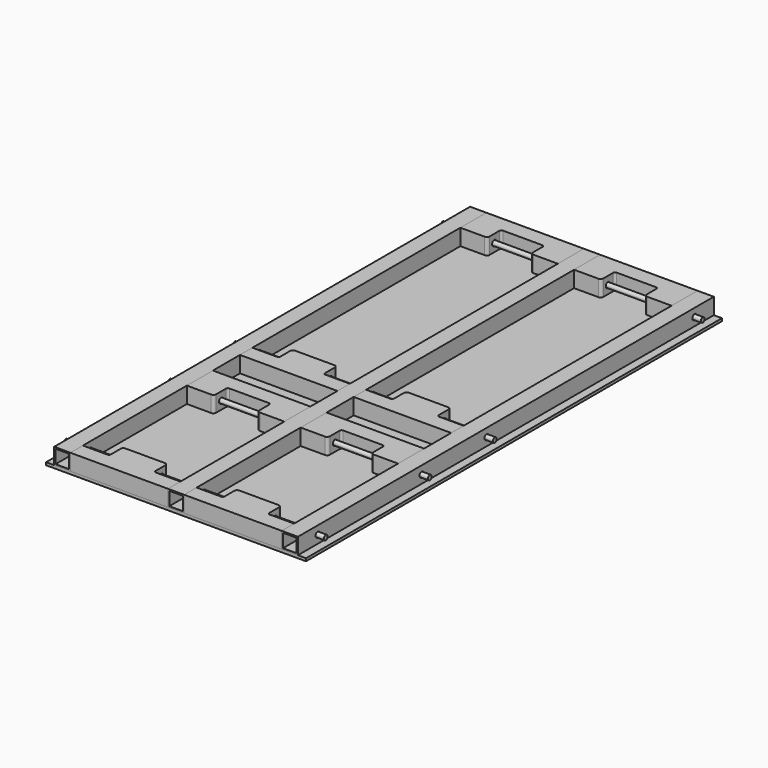
from build123d import *

# Parameters (mm, degrees)
F0_W     = 1219.2
F0_H     = 2438.4
F1_DEPTH = 12.7
F2_W     = 76.2
F2_H     = 76.2
F2_W_2   = 63.5
F2_H_2   = 63.5
F3_DEPTH = 1219.2
F5_DEPTH = 76.2
F6_R     = 12.7
F7_DEPTH = 609.6
F8_R     = 11.1125
F9_DEPTH = 609.6
F10_R    = 9.525
F11_R    = 12.7
F12_R    = 12.7
F13_R    = 9.525


with BuildPart() as f1:
    # F0 (on Top) → F1 (new body)
    with BuildSketch(Plane.XY):
        Rectangle(F0_W, F0_H)
    extrude(amount=F1_DEPTH)


with BuildPart() as f3:
    # F2 (on Front) → F3 (new body, symmetric)
    with BuildSketch(Plane.XZ):
        with Locations((0, 50.8)):
            Rectangle(F2_W, F2_H)
        with Locations((0, 50.8)):
            Rectangle(F2_W_2, F2_H_2, mode=Mode.SUBTRACT)
        with Locations((-533.4, 50.8)):
            Rectangle(F2_W, F2_H)
        with Locations((-533.4, 50.8)):
            Rectangle(F2_W_2, F2_H_2, mode=Mode.SUBTRACT)
        with Locations((533.4, 50.8)):
            Rectangle(F2_W, F2_H)
        with Locations((533.4, 50.8)):
            Rectangle(F2_W_2, F2_H_2, mode=Mode.SUBTRACT)
    extrude(amount=F3_DEPTH, both=True)


with BuildPart() as f5:
    # F4 (on face) → F5 (new body)
    with BuildSketch(Plane.XY.offset(12.7)):
        Polygon((-38.1, 1219.2), (-495.3, 1219.2), (-495.3, 1066.8), (-368.3, 1066.8), (-368.3, 1146.175), (-165.1, 1146.175), (-165.1, 1066.8), (-38.1, 1066.8), align=None)
        Polygon((-495.3, -1146.175), (-495.3, -1219.2), (-38.1, -1219.2), (-38.1, -1146.175), (-161.925, -1146.175), (-161.925, -1066.8), (-371.475, -1066.8), (-371.475, -1146.175), align=None)
        Polygon((495.3, -152.4), (371.475, -152.4), (371.475, -73.025), (161.925, -73.025), (161.925, -152.4), (38.1, -152.4), (38.1, -225.425), (495.3, -225.425), align=None)
        Polygon((38.1, -1146.175), (38.1, -1219.2), (495.3, -1219.2), (495.3, -1146.175), (371.475, -1146.175), (371.475, -1066.8), (161.925, -1066.8), (161.925, -1146.175), align=None)
        Polygon((495.3, 1219.2), (38.1, 1219.2), (38.1, 1066.8), (165.1, 1066.8), (165.1, 1146.175), (368.3, 1146.175), (368.3, 1066.8), (495.3, 1066.8), align=None)
        Polygon((-371.475, -152.4), (-495.3, -152.4), (-495.3, -225.425), (-38.1, -225.425), (-38.1, -152.4), (-161.925, -152.4), (-161.925, -73.025), (-371.475, -73.025), align=None)
        Polygon((-38.1, -384.175), (-495.3, -384.175), (-495.3, -536.575), (-368.3, -536.575), (-368.3, -457.2), (-165.1, -457.2), (-165.1, -536.575), (-38.1, -536.575), align=None)
        Polygon((495.3, -536.575), (495.3, -384.175), (38.1, -384.175), (38.1, -536.575), (165.1, -536.575), (165.1, -457.2), (368.3, -457.2), (368.3, -536.575), align=None)
    extrude(amount=F5_DEPTH)


with BuildPart() as f7_tool:
    # F6 (on Right) → F7 (new body, symmetric)
    with BuildSketch(Plane.YZ):
        with Locations((-1103.3125, 50.8)):
            Circle(F6_R)
        with Locations((-493.7125, 50.8)):
            Circle(F6_R)
        with Locations((-112.7125, 50.8)):
            Circle(F6_R)
        with Locations((1106.4875, 50.8)):
            Circle(F6_R)
    extrude(amount=F7_DEPTH, both=True)


with BuildPart() as f3_1:
    add(f3.part)

    # F7: cut by f7_tool
    add(f7_tool.part, mode=Mode.SUBTRACT)


with BuildPart() as f5_1:
    add(f5.part)

    # F7: cut by f7_tool
    add(f7_tool.part, mode=Mode.SUBTRACT)

    # F10
    f10_edges = [f5_1.edges().sort_by_distance(p)[0] for p in [
        (-368.3, -457.2, 50.8),
        (165.1, -457.2, 50.8),
        (368.3, -457.2, 50.8),
        (-165.1, -457.2, 50.8),
        (-368.3, 1146.175, 50.8),
        (165.1, 1146.175, 50.8),
        (368.3, 1146.175, 50.8),
        (-165.1, 1146.175, 50.8),
    ]]
    fillet(f10_edges, radius=F10_R)

    # F11
    f11_edges = [f5_1.edges().sort_by_distance(p)[0] for p in [
        (-371.475, -73.025, 50.8),
        (-161.925, -73.025, 50.8),
        (161.925, -73.025, 50.8),
        (371.475, -73.025, 50.8),
        (-371.475, -1066.8, 50.8),
        (-161.925, -1066.8, 50.8),
        (161.925, -1066.8, 50.8),
        (371.475, -1066.8, 50.8),
    ]]
    fillet(f11_edges, radius=F11_R)

    # F12
    f12_edges = [f5_1.edges().sort_by_distance(p)[0] for p in [
        (-368.3, -536.575, 50.8),
        (-165.1, -536.575, 50.8),
        (-368.3, 1066.8, 50.8),
        (-165.1, 1066.8, 50.8),
        (165.1, 1066.8, 50.8),
        (368.3, 1066.8, 50.8),
        (165.1, -536.575, 50.8),
        (368.3, -536.575, 50.8),
    ]]
    fillet(f12_edges, radius=F12_R)

    # F13
    f13_edges = [f5_1.edges().sort_by_distance(p)[0] for p in [
        (371.475, -152.4, 50.8),
        (161.925, -152.4, 50.8),
        (-371.475, -152.4, 50.8),
        (-161.925, -152.4, 50.8),
        (-371.475, -1146.175, 50.8),
        (-161.925, -1146.175, 50.8),
        (161.925, -1146.175, 50.8),
        (371.475, -1146.175, 50.8),
    ]]
    fillet(f13_edges, radius=F13_R)


with BuildPart() as f9:
    # F8 (on Right) → F9 (new body, symmetric)
    with BuildSketch(Plane.YZ):
        with Locations((-1103.3125, 50.8)):
            Circle(F8_R)
        with Locations((-493.7125, 50.8)):
            Circle(F8_R)
        with Locations((-112.7125, 50.8)):
            Circle(F8_R)
        with Locations((1106.4875, 50.8)):
            Circle(F8_R)
    extrude(amount=F9_DEPTH, both=True)


solid = Compound([f1.part, f3_1.part, f5_1.part, f9.part])
